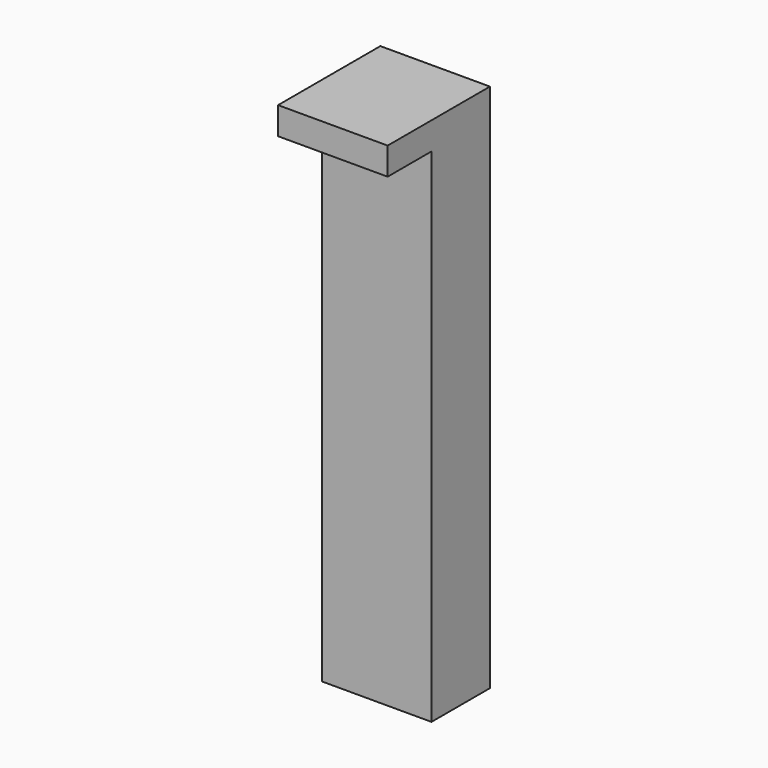
from build123d import *

# Parameters (mm, degrees)
BOX018_W                  = 12
BOX018_H                  = 8
BOX018_DEPTH              = 55
BOX017_W                  = 12
BOX017_H                  = 14
BOX017_DEPTH              = 3
FUSION010_PLACEMENT_ANGLE = 180


with BuildPart() as obj1:
    # Box018 → Box018 (new body)
    with BuildSketch(Plane(origin=(47, 17, 0), x_dir=(1, 0, 0), z_dir=(0, 0, 1))):
        with Locations((6, 4)):
            Rectangle(BOX018_W, BOX018_H)
    extrude(amount=BOX018_DEPTH)


with BuildPart() as l3:
    # Box017 → Box017 (new body)
    with BuildSketch(Plane(origin=(47, 17, 55), x_dir=(1, 0, 0), z_dir=(0, 0, 1))):
        with Locations((6, 7)):
            Rectangle(BOX017_W, BOX017_H)
    extrude(amount=BOX017_DEPTH)

    # Fusion010: union obj1
    add(obj1.part)


with BuildPart() as l3_1:
    # Fusion010 placement: moved
    add(l3.part.moved(Location((62, 141, 0))).rotate(Axis((62, 141, 0), (0, 0, 1)), FUSION010_PLACEMENT_ANGLE))


solid = l3_1.part
